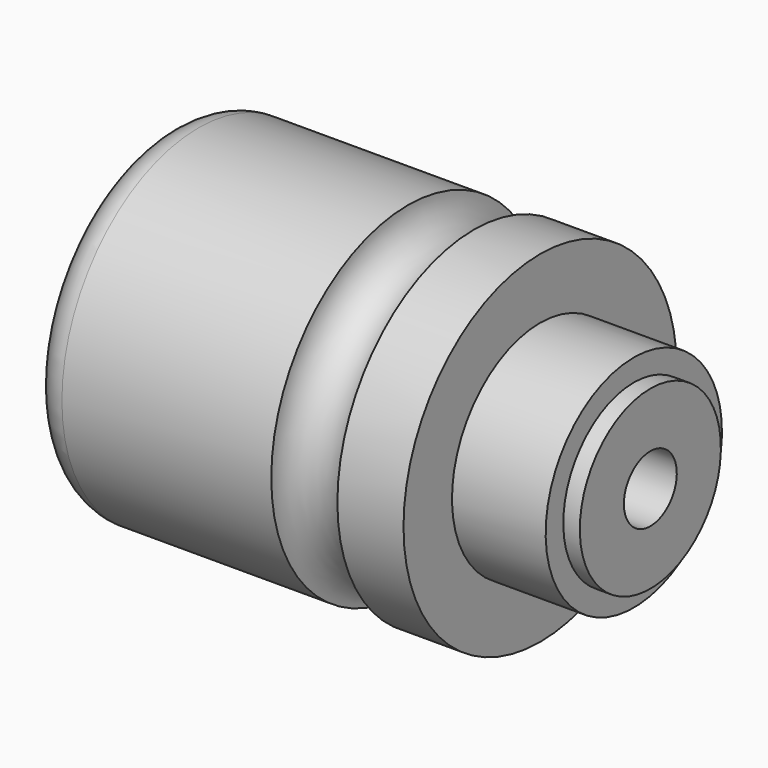
from build123d import *

# Parameters (mm, degrees)
F0_W   = 3
F0_H   = 10
F2_W   = 3
F2_H   = 12.5
F2_W_2 = 58
F2_H_2 = 6


with BuildPart() as f1:
    # F0 (on Front) → F1 (revolve)
    with BuildSketch(Plane.XZ):
        with BuildLine():
            Line((0, 25), (0, 6))
            Line((0, 6), (44, 6))
            Line((44, 6), (44, 31))
            Line((44, 31), (6, 31))
            ThreePointArc((6, 31), (1.757359, 29.242641), (0, 25))
        make_face()
        with BuildLine():
            Line((44, 31), (44, 6))
            Line((44, 6), (56, 6))
            Line((56, 6), (56, 31))
            ThreePointArc((56, 31), (50, 25), (44, 31))
        make_face()
        Polygon((56, 31), (56, 6), (68, 6), (68, 20), (68, 31), align=None)
        Polygon((68, 20), (68, 6), (85, 6), (85, 16), (85, 20), align=None)
        with Locations((86.5, 11)):
            Rectangle(F0_W, F0_H)
    revolve(axis=Axis((2.522928, 0, 0), (1, 0, 0)))

    # F2 (on Front) → F3 (revolve, cut)
    with BuildSketch(Plane.XZ):
        Polygon((0, 25), (0, 0), (1.5, 0), (1.5, 16), (1.5, 25), align=None)
        Polygon((1.5, 16), (1.5, 0), (12, 0), (12, 12.5), (12, 16), align=None)
        with Locations((13.5, 6.25)):
            Rectangle(F2_W, F2_H)
        Polygon((15, 12.5), (15, 0), (22, 0), (22, 16), (22, 20.5), (15, 20.5), align=None)
        Polygon((22, 16), (22, 0), (30, 0), (30, 6), (30, 16), align=None)
        with Locations((59, 3)):
            Rectangle(F2_W_2, F2_H_2)
    revolve(axis=Axis((44, 0, 0), (1, 0, 0)), mode=Mode.SUBTRACT)


solid = f1.part
